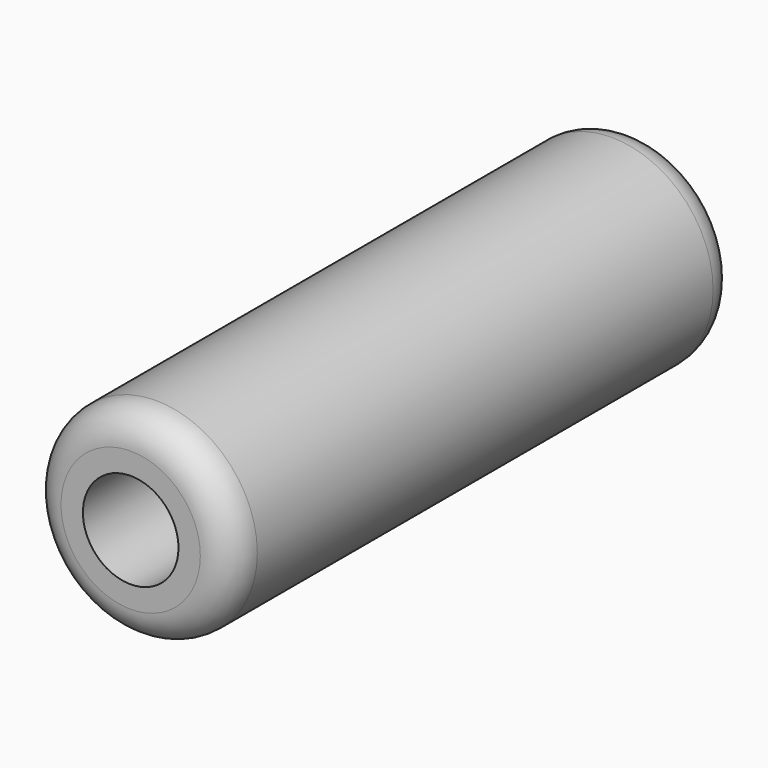
from build123d import *

# Parameters (mm, degrees)
F0_R     = 16
F0_R_2   = 7.55
F1_DEPTH = 100
F2_R     = 5
F3_R     = 3


with BuildPart() as f1:
    # F0 (on Front) → F1 (new body)
    with BuildSketch(Plane.XZ):
        Circle(F0_R)
        Circle(F0_R_2, mode=Mode.SUBTRACT)
    extrude(amount=F1_DEPTH)

    # F2
    f2_edges = [f1.edges().sort_by_distance(p)[0] for p in [
        (-16, -100, 0),
        (-16, 0, 0),
    ]]
    fillet(f2_edges, radius=F2_R)

    # F3
    f3_edges = [f1.edges().sort_by_distance(p)[0] for p in [
        (-7.55, 0, 0),
    ]]
    fillet(f3_edges, radius=F3_R)


solid = f1.part
